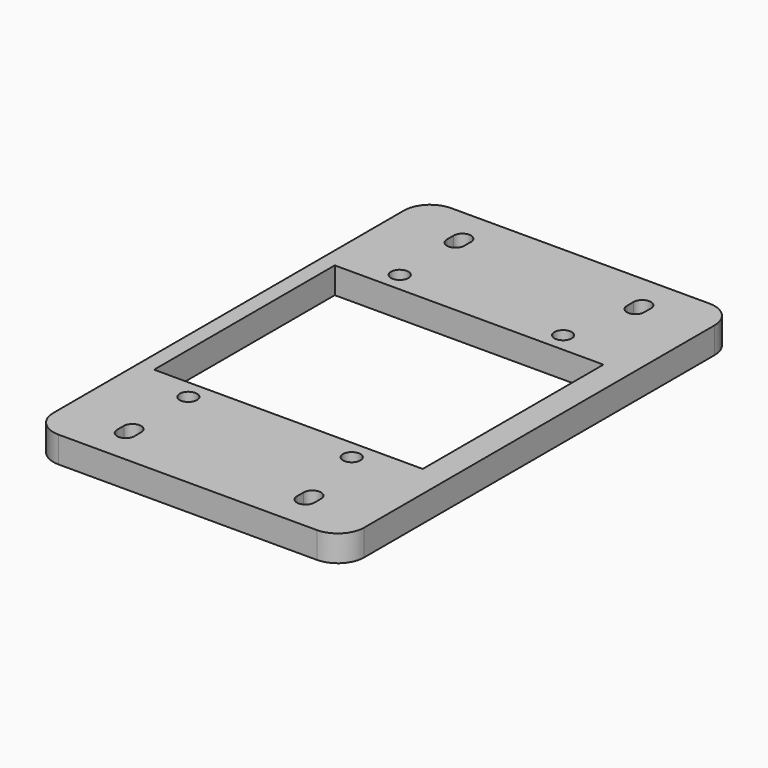
from build123d import *

# Parameters (mm, degrees)
F0_W     = 49.15
F0_H     = 10.3
F0_R     = 1.65
F1_DEPTH = 5
F2_R     = 5


with BuildPart() as f1:
    # F0 (on Top) → F1 (new body)
    with BuildSketch(Plane.XY):
        Polygon((-29.575, 31.8), (-24.575, 31.8), (24.575, 31.8), (29.575, 31.8), (29.575, 46.7), (-29.575, 46.7), align=None)
        with BuildLine():
            ThreePointArc((-15.475, 38.45), (-17.125, 36.8), (-18.775, 38.45))
            Line((-18.775, 38.45), (-18.775, 40.05))
            ThreePointArc((-18.775, 40.05), (-17.125, 41.7), (-15.475, 40.05))
            Line((-15.475, 40.05), (-15.475, 38.45))
        make_face(mode=Mode.SUBTRACT)
        with BuildLine():
            ThreePointArc((18.775, 38.45), (17.125, 36.8), (15.475, 38.45))
            Line((15.475, 38.45), (15.475, 40.05))
            ThreePointArc((15.475, 40.05), (17.125, 41.7), (18.775, 40.05))
            Line((18.775, 40.05), (18.775, 38.45))
        make_face(mode=Mode.SUBTRACT)
        Polygon((29.575, 31.8), (24.575, 31.8), (24.575, 21.5), (24.575, -21.5), (24.575, -31.8), (29.575, -31.8), align=None)
        with Locations((0, 26.65)):
            Rectangle(F0_W, F0_H)
        with Locations((-17.125, 25.15)):
            Circle(F0_R, mode=Mode.SUBTRACT)
        with Locations((13.975, 25.15)):
            Circle(F0_R, mode=Mode.SUBTRACT)
        with Locations((0, -26.65)):
            Rectangle(F0_W, F0_H)
        with Locations((-17.125, -25.15)):
            Circle(F0_R, mode=Mode.SUBTRACT)
        with Locations((13.975, -25.15)):
            Circle(F0_R, mode=Mode.SUBTRACT)
        Polygon((-24.575, 21.5), (-24.575, 31.8), (-29.575, 31.8), (-29.575, -31.8), (-24.575, -31.8), (-24.575, -21.5), (-26.575, -21.5), (-26.575, 21.5), align=None)
        Polygon((-24.575, -31.8), (-29.575, -31.8), (-29.575, -46.7), (29.575, -46.7), (29.575, -31.8), (24.575, -31.8), align=None)
        with BuildLine():
            ThreePointArc((-18.775, -38.45), (-17.125, -36.8), (-15.475, -38.45))
            Line((-15.475, -38.45), (-15.475, -40.05))
            ThreePointArc((-15.475, -40.05), (-17.125, -41.7), (-18.775, -40.05))
            Line((-18.775, -40.05), (-18.775, -38.45))
        make_face(mode=Mode.SUBTRACT)
        with BuildLine():
            ThreePointArc((18.775, -40.05), (17.125, -41.7), (15.475, -40.05))
            Line((15.475, -40.05), (15.475, -38.45))
            ThreePointArc((15.475, -38.45), (17.125, -36.8), (18.775, -38.45))
            Line((18.775, -38.45), (18.775, -40.05))
        make_face(mode=Mode.SUBTRACT)
    extrude(amount=F1_DEPTH)

    # F2
    f2_edges = [f1.edges().sort_by_distance(p)[0] for p in [
        (29.575, 46.7, 2.5),
        (-29.575, 46.7, 2.5),
        (-29.575, -46.7, 2.5),
        (29.575, -46.7, 2.5),
    ]]
    fillet(f2_edges, radius=F2_R)


solid = f1.part
